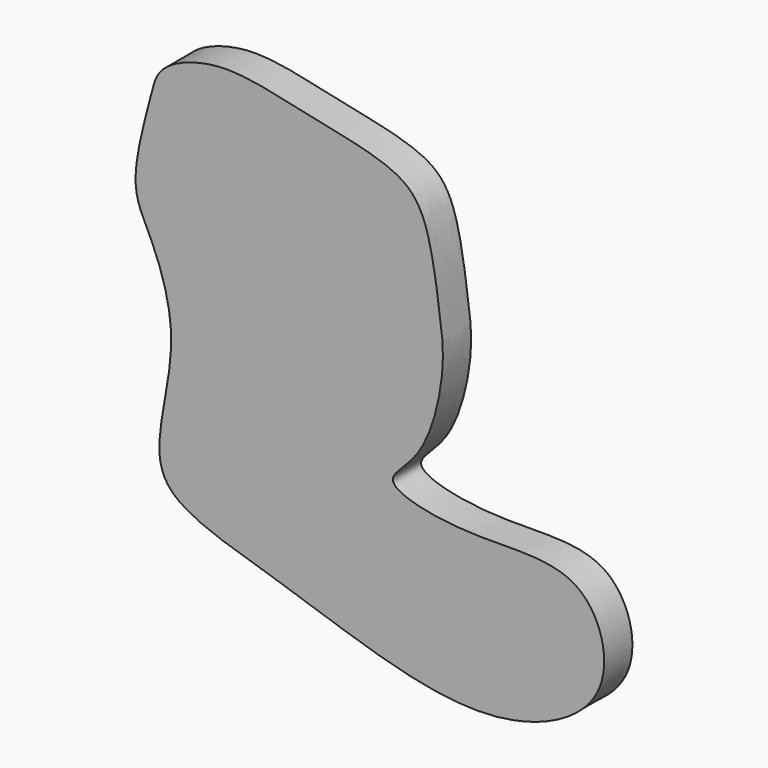
from build123d import *

# Parameters (mm, degrees)
F1_DEPTH = 3.175


with BuildPart() as f1:
    # F0 (on Front) → F1 (new body)
    with BuildSketch(Plane.XZ):
        with BuildLine():
            add(Edge.make_bspline(
                [(-30.50641343, 17.8878512233), (-30.1793925469, 19.2002406747), (-29.8108510557, 21.1910614181), (-23.8889826186, 23.3340364857), (-16.8322345249, 21.3838806177), (-8.7149213143, 20.0397761978), (-5.408757503, 17.1547086223), (-4.4253121665, 9.4364558812), (-3.7906038138, 5.3524992094), (-5.5316527569, -2.5102802639), (-10.641463709, -5.5780507341), (-1.1013755403, -7.6311489408), (8.9576920558, -5.9435646971), (12.1445822705, -16.84027636), (-0.7955481296, -23.1659898033), (-17.3548884353, -16.4821307705), (-29.5027726483, -13.5351923518), (-29.860781503, -7.6916335261), (-27.7329700976, -0.0493559517), (-30.1802549474, 7.021295899), (-32.5181134165, 10.6960321173), (-30.9940596618, 15.9308454056), (-30.50641343, 17.8878512233)],
                knots=[0, 0, 0, 0, 0.0335135838, 0.0768908948, 0.1291615181, 0.1824311263, 0.2201885387, 0.2708322176, 0.3111464371, 0.3639010238, 0.3989578999, 0.4488792725, 0.5081940737, 0.5596461297, 0.6230919368, 0.7043728679, 0.7675352723, 0.8076637936, 0.8607969834, 0.9111923212, 0.9500252929, 1, 1, 1, 1], degree=3))
        make_face()
    extrude(amount=F1_DEPTH)


solid = f1.part
